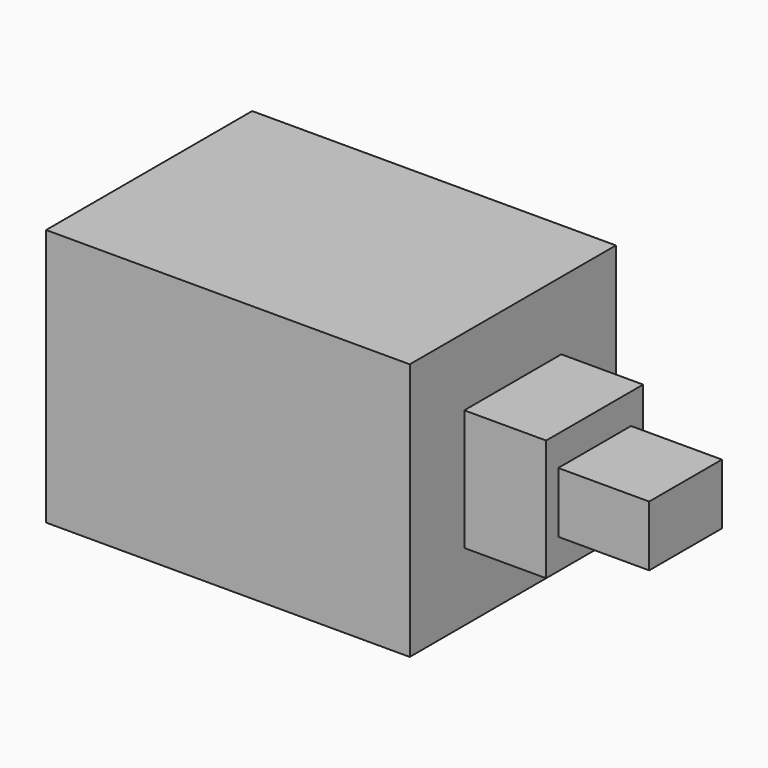
from build123d import *

# Parameters (mm, degrees)
BOX075_W                = 4
BOX075_H                = 4
BOX075_DEPTH            = 5.5
BOX076_W                = 8.5
BOX076_H                = 8.5
BOX076_DEPTH            = 3.5
BOX078_W                = 2
BOX078_H                = 3
BOX078_DEPTH            = 3
BOX074_W                = 8.5
BOX074_H                = 8.5
BOX074_DEPTH            = 8.5
BODY004_PLACEMENT_ANGLE = 90


with BuildPart() as plunger:
    # Box075 → Box075 (new body)
    with BuildSketch(Plane(origin=(-2, -2, 5.7), x_dir=(1, 0, 0), z_dir=(0, 0, 1))):
        with Locations((2, 2)):
            Rectangle(BOX075_W, BOX075_H)
    extrude(amount=BOX075_DEPTH)


with BuildPart() as pins:
    # Box076 → Box076 (new body)
    with BuildSketch(Plane(origin=(-4.25, -4.25, -3.5), x_dir=(1, 0, 0), z_dir=(0, 0, 1))):
        with Locations((4.25, 4.25)):
            Rectangle(BOX076_W, BOX076_H)
    extrude(amount=BOX076_DEPTH)


with BuildPart() as plunger001:
    # Box078 → Box078 (new body)
    with BuildSketch(Plane(origin=(-1, -1.5, 11.2), x_dir=(1, 0, 0), z_dir=(0, 0, 1))):
        with Locations((1, 1.5)):
            Rectangle(BOX078_W, BOX078_H)
    extrude(amount=BOX078_DEPTH)


with BuildPart() as switch:
    # Box074 → Box074 (new body)
    with BuildSketch(Plane(origin=(-4.25, -4.25, 0), x_dir=(1, 0, 0), z_dir=(0, 0, 1))):
        with Locations((4.25, 4.25)):
            Rectangle(BOX074_W, BOX074_H)
    extrude(amount=BOX074_DEPTH)

    # Fusion024: union plunger, pins, plunger001
    add(plunger.part)
    add(pins.part)
    add(plunger001.part)


with BuildPart() as switch_1:
    # Body004 placement: moved
    add(switch.part.moved(Location((17.5, 0, 12))).rotate(Axis((17.5, 0, 12), (0, 1, 0)), BODY004_PLACEMENT_ANGLE))


solid = switch_1.part
